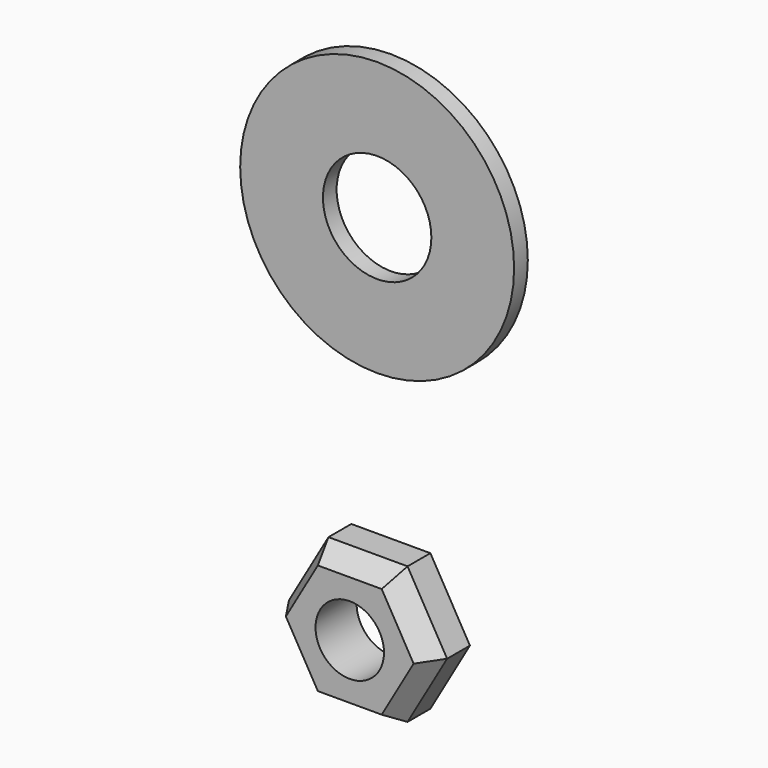
from build123d import *

# Parameters (mm, degrees)
F0_R     = 6
F1_DEPTH = 9
F2_R     = 24
F2_R_2   = 9.5
F3_DEPTH = 3
F4_SIZE2 = 2.309401
F4_SIZE  = 4


with BuildPart() as f1:
    # F0 (on Front) → F1 (new body)
    with BuildSketch(Plane.XZ):
        Polygon((6.928203, 12), (-6.928203, 12), (-13.856406, 0), (-6.928203, -12), (6.928203, -12), (13.856406, 0), align=None)
        Circle(F0_R, mode=Mode.SUBTRACT)
    extrude(amount=F1_DEPTH)

    # F4
    f4_edges = [f1.edges().sort_by_distance(p)[0] for p in [
        (-10.392305, -9, -6),
        (0, -9, -12),
        (10.392305, -9, -6),
        (10.392305, -9, 6),
        (0, -9, 12),
        (-10.392305, -9, 6),
    ]]
    chamfer(f4_edges, length=F4_SIZE, length2=F4_SIZE2)


with BuildPart() as f3:
    # F2 (on Front) → F3 (new body)
    with BuildSketch(Plane.XZ):
        with Locations((0, 62.735419)):
            Circle(F2_R)
        with Locations((0, 62.735419)):
            Circle(F2_R_2, mode=Mode.SUBTRACT)
    extrude(amount=F3_DEPTH)


solid = Compound([f1.part, f3.part])
